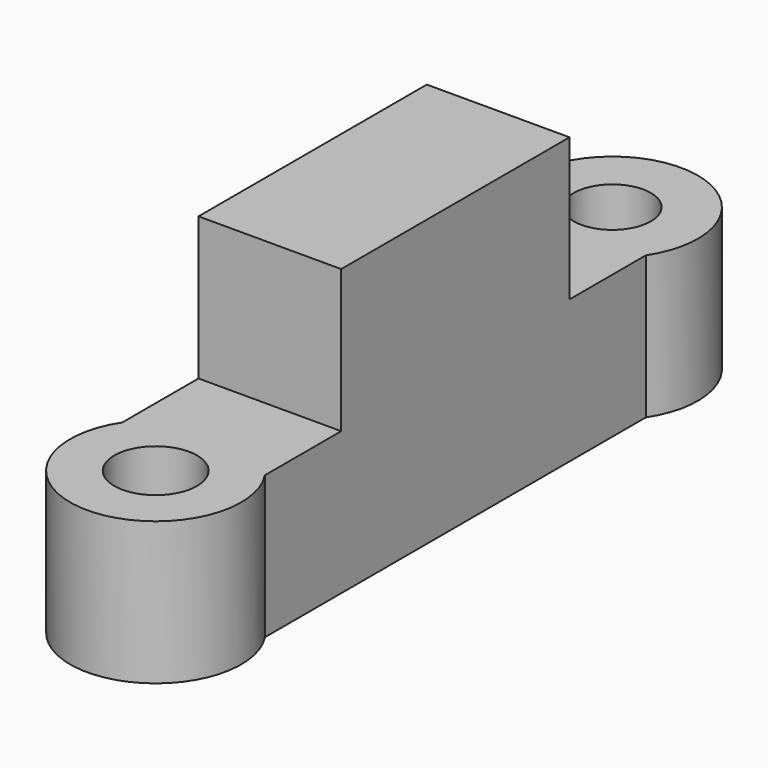
from build123d import *

# Parameters (mm, degrees)
F0_W      = 5
F0_H      = 20
F1_DEPTH  = 5
F2_R      = 3
F3_DEPTH  = 5
F4_R      = 3
F5_DEPTH  = 5
F6_R      = 1.35
F7_DEPTH  = 5
F8_R      = 1.45
F9_DEPTH  = 5
F10_W     = 5
F10_H     = 10
F11_DEPTH = 5


with BuildPart() as f1:
    # F0 (on Top) → F1 (new body)
    with BuildSketch(Plane.XY):
        Rectangle(F0_W, F0_H)
    extrude(amount=F1_DEPTH)

    # F2 (on Top) → F3 (join)
    with BuildSketch(Plane.XY):
        with Locations((0, 10)):
            Circle(F2_R)
    extrude(amount=F3_DEPTH)

    # F4 (on Top) → F5 (join)
    with BuildSketch(Plane.XY):
        with Locations((0, -10)):
            Circle(F4_R)
    extrude(amount=F5_DEPTH)

    # F6 (on face) → F7 (cut)
    with BuildSketch(Plane.XY.offset(5)):
        with Locations((0, 10)):
            Circle(F6_R)
    extrude(amount=-F7_DEPTH, mode=Mode.SUBTRACT)

    # F8 (on face) → F9 (cut)
    with BuildSketch(Plane.XY.offset(5)):
        with Locations((0, -10)):
            Circle(F8_R)
    extrude(amount=-F9_DEPTH, mode=Mode.SUBTRACT)

    # F10 (on face) → F11 (join)
    with BuildSketch(Plane.XY.offset(5)):
        Rectangle(F10_W, F10_H)
    extrude(amount=F11_DEPTH)


solid = f1.part
